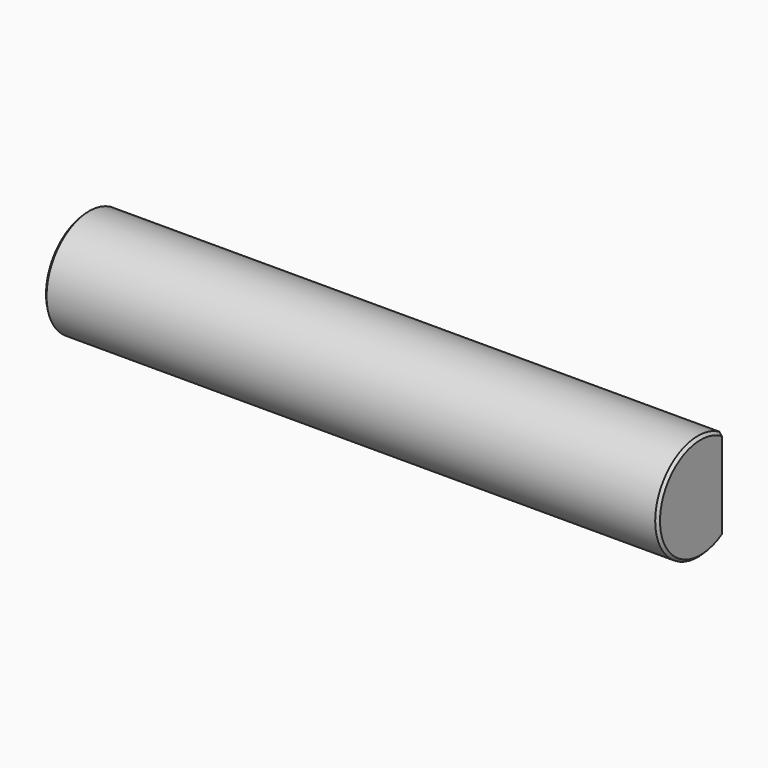
from build123d import *

# Parameters (mm, degrees)
F1_DEPTH = 230
F2_SIZE  = 1


with BuildPart() as f1:
    # F0 (on Right) → F1 (new body)
    with BuildSketch(Plane.YZ):
        with BuildLine():
            Line((10, -17.320508), (10, 17.320508))
            ThreePointArc((10, 17.320508), (-20, 0), (10, -17.320508))
        make_face()
    extrude(amount=F1_DEPTH)

    # F2
    f2_edges = [f1.edges().sort_by_distance(p)[0] for p in [
        (0, -20, 0),
        (230, -20, 0),
    ]]
    chamfer(f2_edges, length=F2_SIZE)


solid = f1.part
